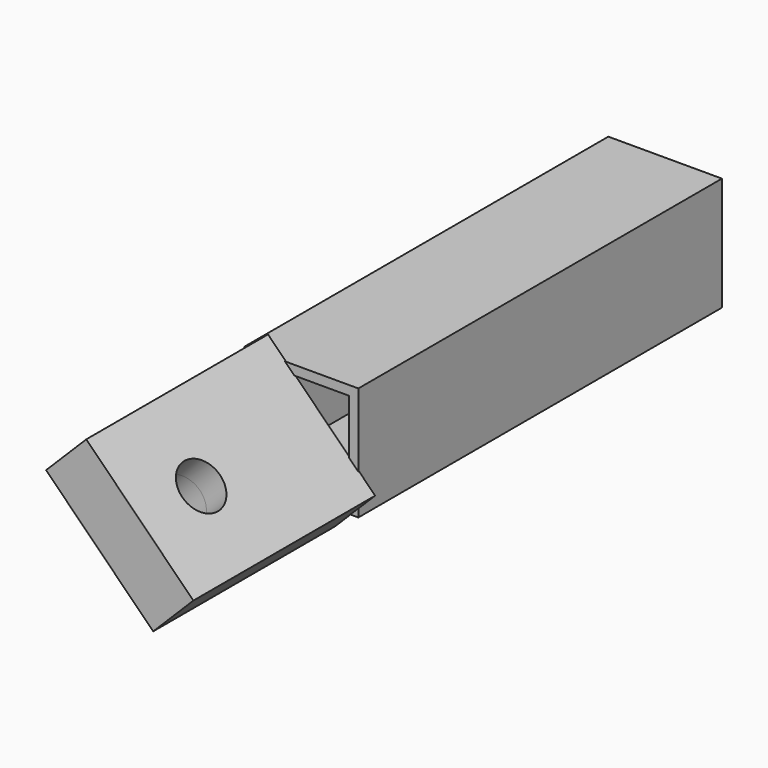
from build123d import *

# Parameters (mm, degrees)
F0_W          = 19.05
F0_H          = 19.05
F0_W_2        = 15.875
F0_H_2        = 15.875
F1_DEPTH      = 76.2
F3_W          = 38.1
F3_H          = 25.4
F3_R          = 3.9751
F4_DEPTH      = 4.7625
F4_DEPTH_BACK = 4.7625


with BuildPart() as f1:
    # F0 (on Front) → F1 (new body)
    with BuildSketch(Plane.XZ):
        with Locations((9.525, 9.525)):
            Rectangle(F0_W, F0_H)
        with Locations((9.525, 9.525)):
            Rectangle(F0_W_2, F0_H_2, mode=Mode.SUBTRACT)
    extrude(amount=F1_DEPTH)

    # F3 (on 3pt) → F4 (join, two sides)
    with BuildSketch(Plane(origin=(9.525, 0, 9.525), x_dir=(0, -1, 0), z_dir=(-0.7071067812, 0, -0.7071067812))) as f4_sk:
        with Locations((95.0992362738, 0.1792250585)):
            Rectangle(F3_W, F3_H)
        with Locations((101.4492362738, 0)):
            Circle(F3_R, mode=Mode.SUBTRACT)
    extrude(amount=F4_DEPTH)
    extrude(f4_sk.sketch, amount=-F4_DEPTH_BACK)


solid = f1.part
